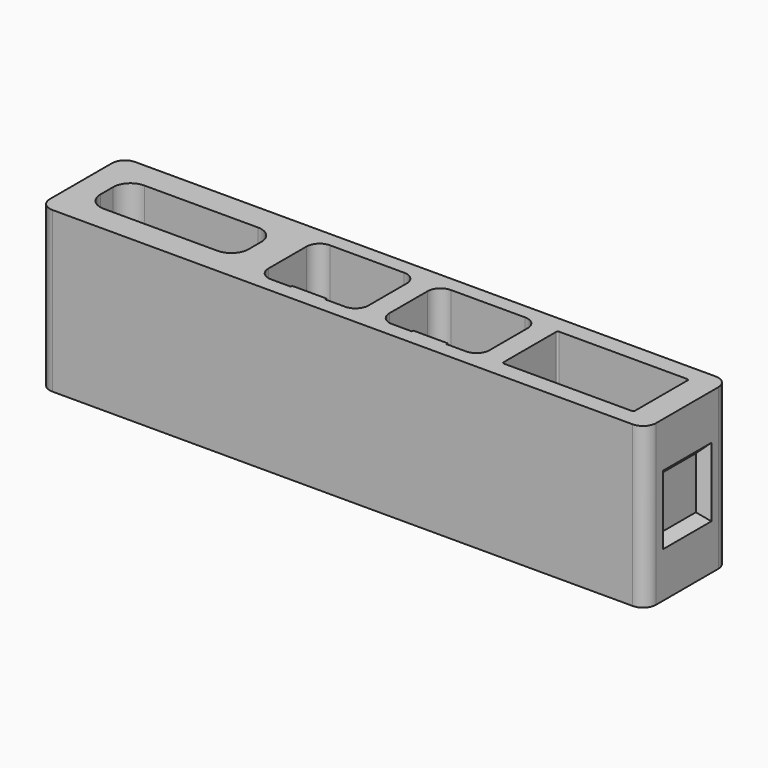
from build123d import *

# Parameters (mm, degrees)
F2_DEPTH  = 18.5
F3_R      = 1.55
F4_DEPTH  = 3.075
F5_W      = 6
F5_H      = 0.5
F6_DEPTH  = 0.2
F5_W_2    = 4
F5_H_2    = 2.25
F7_DEPTH  = 0.6
F8_W      = 4
F8_H      = 0.5
F9_DEPTH  = 0.9
F8_H_2    = 0.47
F10_DEPTH = 0.2
F11_W     = 4
F11_H     = 0.5
F12_DEPTH = 0.9
F11_H_2   = 0.47
F13_DEPTH = 0.2
F14_W     = 4
F14_H     = 0.5
F15_DEPTH = 0.7
F16_W     = 8
F16_H     = 7
F17_DEPTH = 1
F17_TAPER = 45
F18_W     = 8
F18_H     = 7
F19_DEPTH = 1
F19_TAPER = 45
F22_ANGLE = 90


with BuildPart() as f2:
    # F1 (on Front) → F2 (new body)
    with BuildSketch(Plane.XZ):
        with BuildLine():
            Line((-33.5725, -6), (33.5725, -6))
            ThreePointArc((33.5725, -6), (34.6331601718, -5.5606601718), (35.0725, -4.5))
            Line((35.0725, -4.5), (35.0725, 4.5))
            ThreePointArc((35.0725, 4.5), (34.6331601718, 5.5606601718), (33.5725, 6))
            Line((33.5725, 6), (-33.5725, 6))
            ThreePointArc((-33.5725, 6), (-34.6331601718, 5.5606601718), (-35.0725, 4.5))
            Line((-35.0725, 4.5), (-35.0725, -4.5))
            ThreePointArc((-35.0725, -4.5), (-34.6331601718, -5.5606601718), (-33.5725, -6))
        make_face()
        with BuildLine():
            ThreePointArc((-14.9225, -0.925), (-15.5082864376, -2.3392135624), (-16.9225, -2.925))
            Line((-16.9225, -2.925), (-30.0725, -2.925))
            ThreePointArc((-30.0725, -2.925), (-31.4867135624, -2.3392135624), (-32.0725, -0.925))
            Line((-32.0725, -0.925), (-32.0725, 0.925))
            ThreePointArc((-32.0725, 0.925), (-31.4867135624, 2.3392135624), (-30.0725, 2.925))
            Line((-30.0725, 2.925), (-16.9225, 2.925))
            ThreePointArc((-16.9225, 2.925), (-15.5082864376, 2.3392135624), (-14.9225, 0.925))
            Line((-14.9225, 0.925), (-14.9225, -0.925))
        make_face(mode=Mode.SUBTRACT)
        with BuildLine():
            Line((-9.6675, 4.265), (-1.0875, 4.265))
            ThreePointArc((-1.0875, 4.265), (-0.0268398282, 3.8256601718), (0.4125, 2.765))
            Line((0.4125, 2.765), (0.4125, -2.765))
            ThreePointArc((0.4125, -2.765), (-0.0268398282, -3.8256601718), (-1.0875, -4.265))
            Line((-1.0875, -4.265), (-9.6675, -4.265))
            ThreePointArc((-9.6675, -4.265), (-10.7281601718, -3.8256601718), (-11.1675, -2.765))
            Line((-11.1675, -2.765), (-11.1675, 2.765))
            ThreePointArc((-11.1675, 2.765), (-10.7281601718, 3.8256601718), (-9.6675, 4.265))
        make_face(mode=Mode.SUBTRACT)
        with BuildLine():
            Line((4.3325, 4.265), (12.9125, 4.265))
            ThreePointArc((12.9125, 4.265), (13.9731601718, 3.8256601718), (14.4125, 2.765))
            Line((14.4125, 2.765), (14.4125, -2.765))
            ThreePointArc((14.4125, -2.765), (13.9731601718, -3.8256601718), (12.9125, -4.265))
            Line((12.9125, -4.265), (4.3325, -4.265))
            ThreePointArc((4.3325, -4.265), (3.2718398282, -3.8256601718), (2.8325, -2.765))
            Line((2.8325, -2.765), (2.8325, 2.765))
            ThreePointArc((2.8325, 2.765), (3.2718398282, 3.8256601718), (4.3325, 4.265))
        make_face(mode=Mode.SUBTRACT)
        with BuildLine():
            ThreePointArc((32.0725, -3.8), (32.0139213562, -3.9414213562), (31.8725, -4))
            Line((31.8725, -4), (17.0725, -4))
            ThreePointArc((17.0725, -4), (16.9310786438, -3.9414213562), (16.8725, -3.8))
            Line((16.8725, -3.8), (16.8725, 3.8))
            ThreePointArc((16.8725, 3.8), (16.9310786438, 3.9414213562), (17.0725, 4))
            Line((17.0725, 4), (31.8725, 4))
            ThreePointArc((31.8725, 4), (32.0139213562, 3.9414213562), (32.0725, 3.8))
            Line((32.0725, 3.8), (32.0725, -3.8))
        make_face(mode=Mode.SUBTRACT)
    extrude(amount=-F2_DEPTH)

    # F3 (on face) → F4 (cut, through all)
    with BuildSketch(Plane.XY.offset(6)):
        with Locations((-23.4975, 13.2)):
            Circle(F3_R)
    extrude(amount=-F4_DEPTH, mode=Mode.SUBTRACT)

    # F5 (on face) → F6 (join)
    with BuildSketch(Plane.XY.offset(-2.925)):
        with Locations((-23.4975, 18.25)):
            Rectangle(F5_W, F5_H)
    extrude(amount=F6_DEPTH)

    # F5 (on face) → F7 (join)
    with BuildSketch(Plane.XY.offset(-2.925)):
        with Locations((-23.4975, 6.575)):
            Rectangle(F5_W_2, F5_H_2)
    extrude(amount=F7_DEPTH)

    # F8 (on face) → F9 (join)
    with BuildSketch(Plane.XY.offset(-4.265)):
        with Locations((-5.3775, 18.25)):
            Rectangle(F8_W, F8_H)
    extrude(amount=F9_DEPTH)

    # F8 (on face) → F10 (join)
    with BuildSketch(Plane.XY.offset(-4.265)):
        with Locations((-5.3775, 0.235)):
            Rectangle(F8_W, F8_H_2)
    extrude(amount=F10_DEPTH)

    # F11 (on face) → F12 (join)
    with BuildSketch(Plane.XY.offset(-4.265)):
        with Locations((8.6225, 18.25)):
            Rectangle(F11_W, F11_H)
    extrude(amount=F12_DEPTH)

    # F11 (on face) → F13 (join)
    with BuildSketch(Plane.XY.offset(-4.265)):
        with Locations((8.6225, 0.235)):
            Rectangle(F11_W, F11_H_2)
    extrude(amount=F13_DEPTH)

    # F14 (on face) → F15 (join)
    with BuildSketch(Plane.XY.offset(-4)):
        with Locations((24.4725, 18.25)):
            Rectangle(F14_W, F14_H)
    extrude(amount=F15_DEPTH)

    # F16 (on face) → F17 (cut)
    with BuildSketch(Plane.YZ.offset(35.0725)):
        with Locations((9.25, 0)):
            Rectangle(F16_W, F16_H)
    extrude(amount=-F17_DEPTH, taper=F17_TAPER, mode=Mode.SUBTRACT)

    # F18 (on face) → F19 (cut)
    with BuildSketch(Plane(origin=(-35.0725, 0, 0), x_dir=(0, -1, 0), z_dir=(-1, 0, 0))):
        with Locations((-9.25, 0)):
            Rectangle(F18_W, F18_H)
    extrude(amount=-F19_DEPTH, taper=F19_TAPER, mode=Mode.SUBTRACT)


with BuildPart() as f2_1:
    # F22: moved
    add(f2.part.rotate(Axis((0, 18.5, 6), (-1, 0, 0)), F22_ANGLE))


solid = f2_1.part
